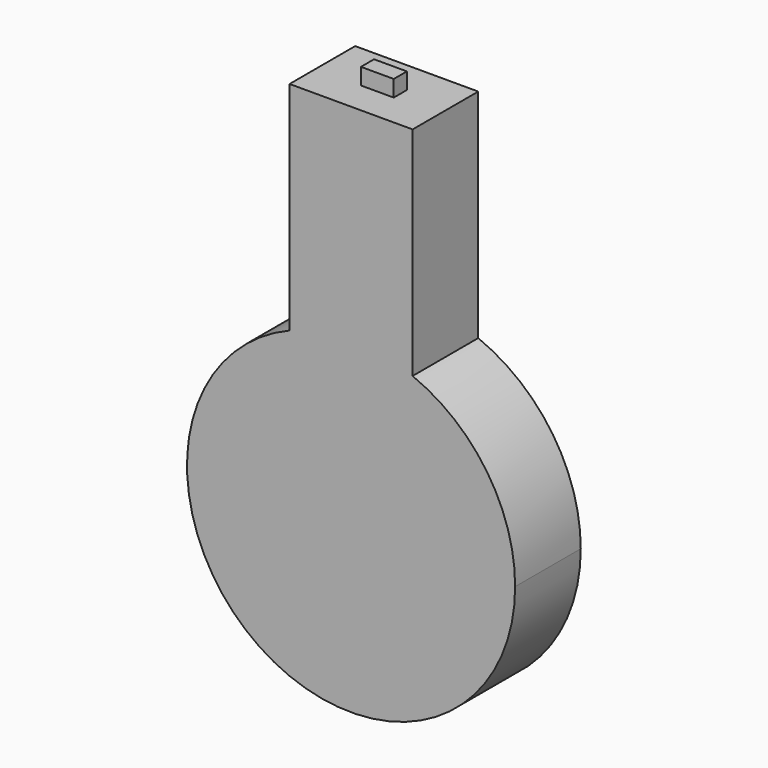
from build123d import *

# Parameters (mm, degrees)
F0_DEPTH = 12.7
F1_W     = 5.08
F1_H     = 2.54
F2_DEPTH = 2.54


with BuildPart() as f0:
    # F3 (on Front) → F0 (new body)
    with BuildSketch(Plane.XZ):
        with BuildLine():
            Line((-31.361033, 69.238202), (-50.411033, 69.238202))
            Line((-50.411033, 69.238202), (-50.411033, 35.634632))
            ThreePointArc((-50.411033, 35.634632), (-40.886033, 37.488202), (-31.361033, 35.634632))
            Line((-31.361033, 35.634632), (-31.361033, 69.238202))
        make_face()
        with BuildLine():
            ThreePointArc((-31.361033, 35.634632), (-40.886033, 37.488202), (-50.411033, 35.634632))
            Line((-50.411033, 35.634632), (-50.411033, 12.088202))
            Line((-50.411033, 12.088202), (-31.361033, 12.088202))
            Line((-31.361033, 12.088202), (-31.361033, 35.634632))
        make_face()
        with BuildLine():
            Line((-50.411033, 12.088202), (-50.411033, 35.634632))
            ThreePointArc((-50.411033, 35.634632), (-55.085064, -8.972365), (-15.486033, 12.088202))
            ThreePointArc((-15.486033, 12.088202), (-19.825465, 26.287234), (-31.361033, 35.634632))
            Line((-31.361033, 35.634632), (-31.361033, 12.088202))
            Line((-31.361033, 12.088202), (-50.411033, 12.088202))
        make_face()
    extrude(amount=F0_DEPTH)

    # F1 (on face) → F2 (join)
    with BuildSketch(Plane.XY.offset(69.238202)):
        with Locations((-40.886033, -6.35)):
            Rectangle(F1_W, F1_H)
    extrude(amount=F2_DEPTH)


solid = f0.part
